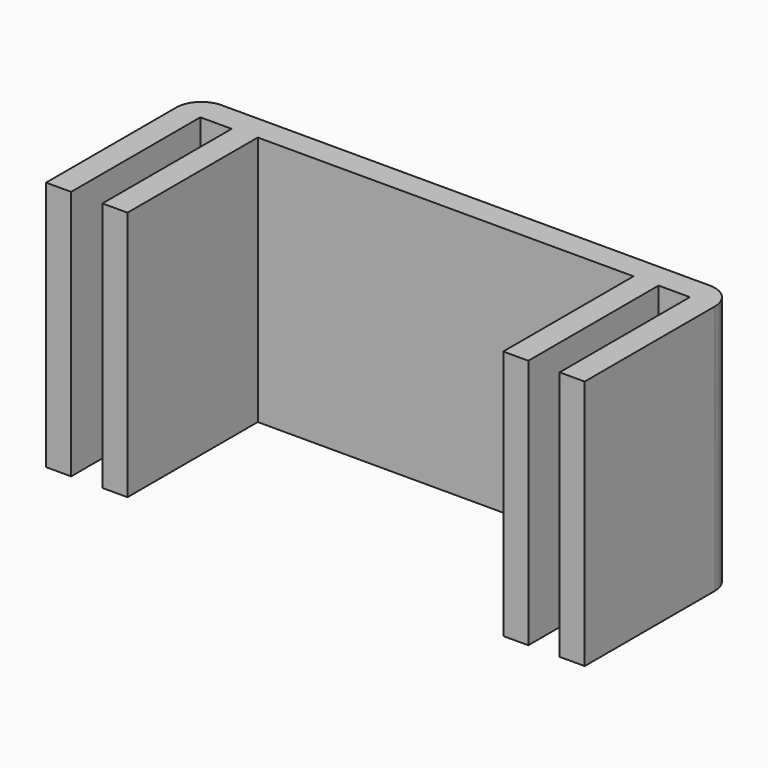
from build123d import *

# Parameters (mm, degrees)
F1_DEPTH = 20
F2_R     = 2


with BuildPart() as f1:
    # F0 (on Top) → F1 (new body)
    with BuildSketch(Plane.XY):
        Polygon((-2, 0), (0, 0), (0, 13), (2.5, 13), (2.5, 0), (4.5, 0), (4.5, 15), (2.5, 15), (0, 15), (-34, 15), (-36.5, 15), (-38.5, 15), (-38.5, 0), (-36.5, 0), (-36.5, 12.895762), (-34, 12.895762), (-34, 0), (-32, 0), (-32, 13), (-2, 13), align=None)
    extrude(amount=F1_DEPTH)

    # F2
    f2_edges = [f1.edges().sort_by_distance(p)[0] for p in [
        (4.5, 15, 10),
        (-38.5, 15, 10),
    ]]
    fillet(f2_edges, radius=F2_R)


solid = f1.part
